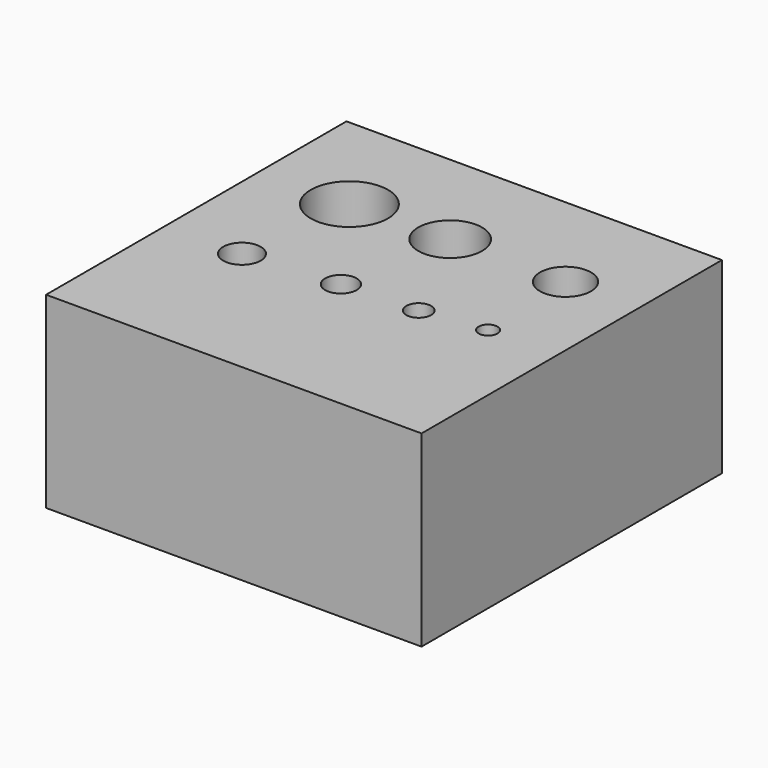
from build123d import *

# Parameters (mm, degrees)
F0_W     = 50
F0_H     = 50
F1_DEPTH = 25
F3_D     = 10.3
F4_D     = 8.5
F5_D     = 6.8
F6_D     = 5
F7_D     = 4.2
F8_D     = 3.3
F9_D     = 2.5


with BuildPart() as f1:
    # F0 (on Top) → F1 (new body)
    with BuildSketch(Plane.XY):
        Rectangle(F0_W, F0_H)
    extrude(amount=F1_DEPTH)

    # F3 (through all)
    with Locations(Plane.XY.offset(25)):
        with Locations((-13.114403002, 10.6317354366)):
            Hole(F3_D / 2)

    # F4 (through all)
    with Locations(Plane.XY.offset(25)):
        with Locations((0, 11.0131110996)):
            Hole(F4_D / 2)

    # F5 (through all)
    with Locations(Plane.XY.offset(25)):
        with Locations((15.3620382771, 11.0131110996)):
            Hole(F5_D / 2)

    # F6 (through all)
    with Locations(Plane.XY.offset(25)):
        with Locations((-14.8614421487, -5.0685340539)):
            Hole(F6_D / 2)

    # F7 (through all)
    with Locations(Plane.XY.offset(25)):
        with Locations((-2.5342670269, -4.0047676302)):
            Hole(F7_D / 2)

    # F8 (through all)
    with Locations(Plane.XY.offset(25)):
        with Locations((7.4776518159, -3.5667461343)):
            Hole(F8_D / 2)

    # F9 (through all)
    with Locations(Plane.XY.offset(25)):
        with Locations((15.8626344055, -2.5029797107)):
            Hole(F9_D / 2)


solid = f1.part
